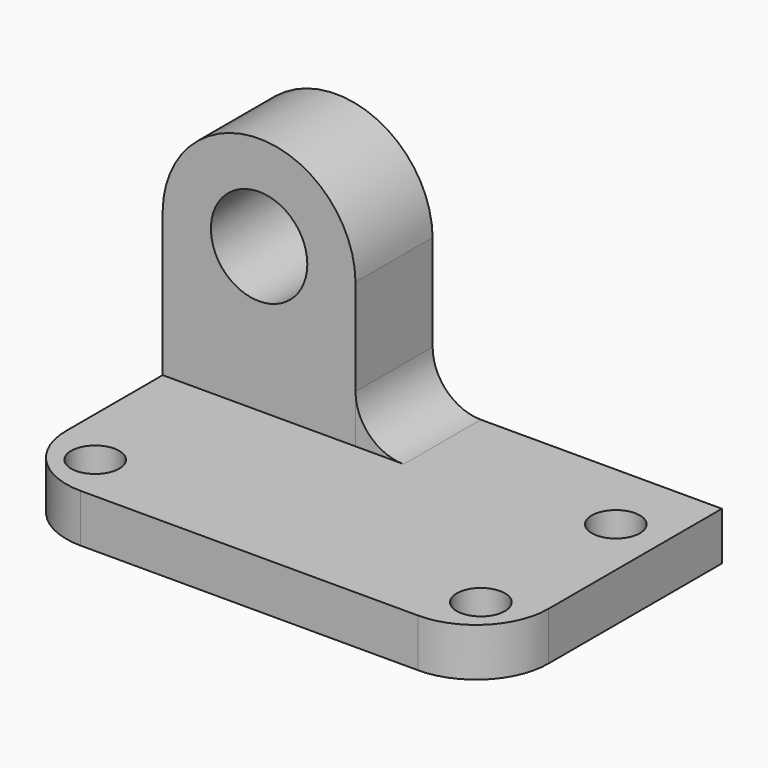
from build123d import *

# Parameters (mm, degrees)
F0_W     = 63.5
F0_H     = 38.1
F1_DEPTH = 6.35
F2_R     = 3.175
F3_DEPTH = 25.4
F4_W     = 25.4
F4_H     = 12.7
F5_DEPTH = 31.75
F6_R     = 6.35
F7_DEPTH = 25.4
F9_DEPTH = 12.7
F10_R    = 9.525


with BuildPart() as f1:
    # F0 (on Top) → F1 (new body)
    with BuildSketch(Plane.XY):
        with Locations((31.75, 19.05)):
            Rectangle(F0_W, F0_H)
    extrude(amount=F1_DEPTH)

    # F2 (on face) → F3 (cut)
    with BuildSketch(Plane.XY.offset(6.35)):
        with Locations((6.35, 6.35)):
            Circle(F2_R)
        with Locations((57.15, 6.35)):
            Circle(F2_R)
        with Locations((57.15, 28.575)):
            Circle(F2_R)
    extrude(amount=-F3_DEPTH, mode=Mode.SUBTRACT)

    # F4 (on face) → F5 (join)
    with BuildSketch(Plane.XY.offset(6.35)):
        with Locations((12.7, 31.75)):
            Rectangle(F4_W, F4_H)
    extrude(amount=F5_DEPTH)

    # F6 (on face) → F7 (cut)
    with BuildSketch(Plane.XZ.offset(-25.4)):
        with Locations((12.7, 25.4)):
            Circle(F6_R)
        with BuildLine():
            ThreePointArc((0, 25.4), (12.7, 37.9157663144), (25.4, 25.4))
            Line((25.4, 25.4), (25.4, 38.1))
            Line((25.4, 38.1), (0, 38.1))
            Line((0, 38.1), (0, 25.4))
        make_face()
    extrude(amount=-F7_DEPTH, mode=Mode.SUBTRACT)

    # F10
    f10_edges = [f1.edges().sort_by_distance(p)[0] for p in [
        (63.5, 0, 3.175),
        (0, 0, 3.175),
    ]]
    fillet(f10_edges, radius=F10_R)


with BuildPart() as f9:
    # F8 (on face) → F9 (new body)
    with BuildSketch(Plane.XZ.offset(-25.4)):
        with BuildLine():
            Line((25.4, 6.35), (31.75, 6.35))
            ThreePointArc((31.75, 6.35), (27.2598719395, 8.2098719395), (25.4, 12.7))
            Line((25.4, 12.7), (25.4, 6.35))
        make_face()
    extrude(amount=-F9_DEPTH)


solid = Compound([f1.part, f9.part])
